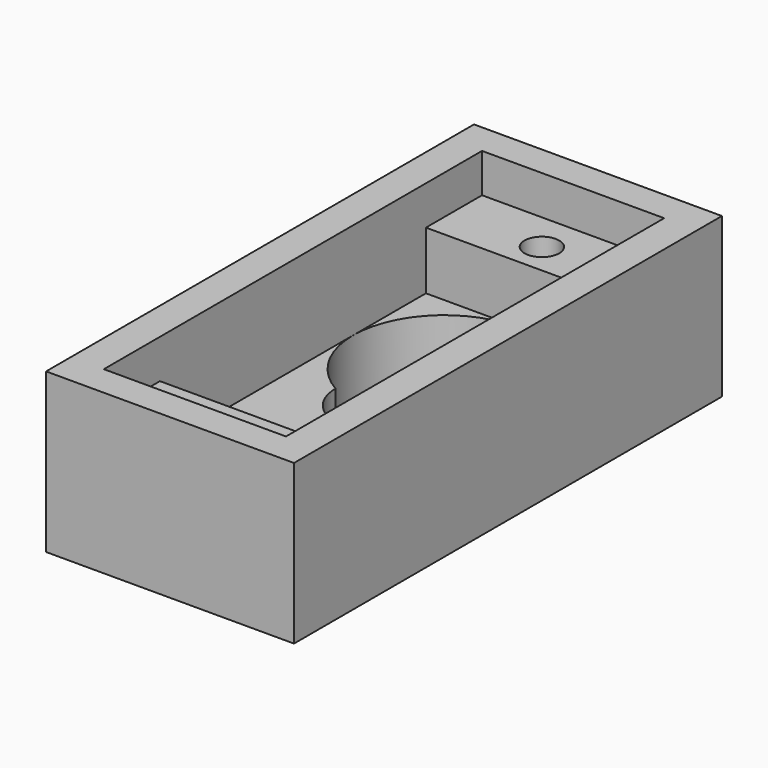
from build123d import *

# Parameters (mm, degrees)
SKETCH_W        = 17.15
SKETCH_H        = 37
PAD_DEPTH       = 11
SKETCH001_W     = 12.6
SKETCH001_H     = 32.7
POCKET_DEPTH    = 2.7
SKETCH002_W     = 12.6
SKETCH002_H     = 23
POCKET001_DEPTH = 4
POCKET002_DEPTH = 4.3
SKETCH004_R     = 1.2
POCKET003_DEPTH = 8.301


with BuildPart() as part:
    # Sketch → Pad (new body)
    with BuildSketch(Plane.XY):
        with Locations((8.575, 18.5)):
            Rectangle(SKETCH_W, SKETCH_H)
    extrude(amount=PAD_DEPTH)

    # Sketch001 (on Face6 of Pad) → Pocket (cut)
    with BuildSketch(Plane.XY.offset(11)):
        with Locations((8.575, 18.5)):
            Rectangle(SKETCH001_W, SKETCH001_H)
    extrude(amount=-POCKET_DEPTH, mode=Mode.SUBTRACT)

    # Sketch002 (on Face11 of Pocket) → Pocket001 (cut)
    with BuildSketch(Plane.XY.offset(8.3)):
        with Locations((8.575, 18.5)):
            Rectangle(SKETCH002_W, SKETCH002_H)
    extrude(amount=-POCKET001_DEPTH, mode=Mode.SUBTRACT)

    # Sketch003 (on Face17 of Pocket001) → Pocket002 (cut)
    with BuildSketch(Plane.XY.offset(4.3)):
        with BuildLine():
            ThreePointArc((11.725, 18.24404), (8.575, 30), (5.425, 18.24404))
            ThreePointArc((5.425, 18.24404), (8.575, 15.09404), (11.725, 18.24404))
        make_face()
    extrude(amount=-POCKET002_DEPTH, mode=Mode.SUBTRACT)

    # Sketch004 (on Face18 of Pocket002) → Pocket003 (cut, through all)
    with BuildSketch(Plane.XY.offset(8.3)):
        with Locations((8.575, 32.15)):
            Circle(SKETCH004_R)
        with Locations((8.575, 4.85)):
            Circle(SKETCH004_R)
    extrude(amount=-POCKET003_DEPTH, mode=Mode.SUBTRACT)


solid = part.part
